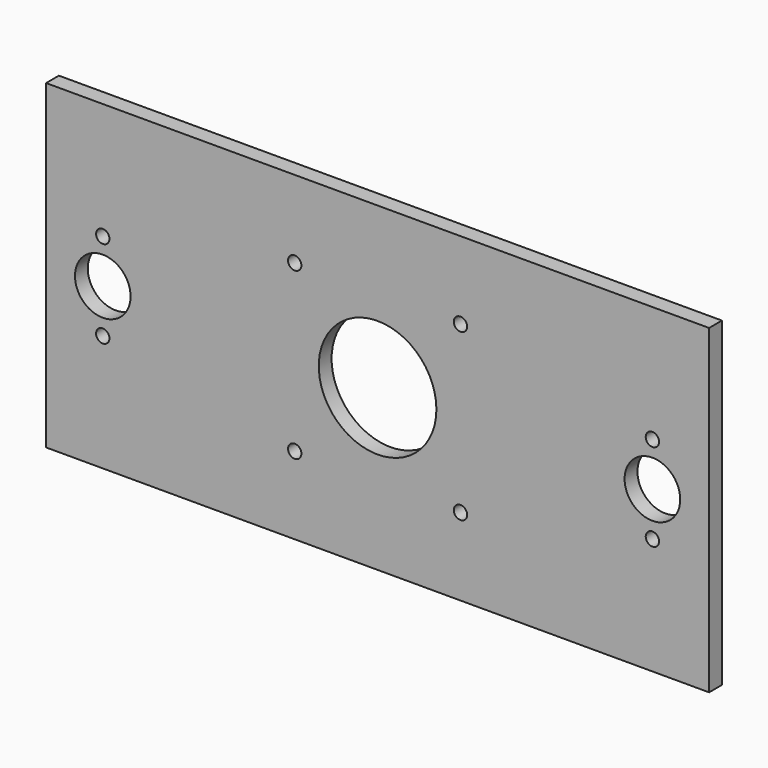
from build123d import *

# Parameters (mm, degrees)
F0_W     = 124
F0_H     = 60
F0_R     = 1.25
F0_R_2   = 5.2
F0_R_3   = 11
F1_DEPTH = 3


with BuildPart() as f1:
    # F0 (on Front) → F1 (new body)
    with BuildSketch(Plane.XZ):
        Rectangle(F0_W, F0_H)
        with Locations((-15.5, -15.5)):
            Circle(F0_R, mode=Mode.SUBTRACT)
        with Locations((-51.4, -8.2)):
            Circle(F0_R, mode=Mode.SUBTRACT)
        with Locations((15.5, -15.5)):
            Circle(F0_R, mode=Mode.SUBTRACT)
        with Locations((51.4, -8.2)):
            Circle(F0_R, mode=Mode.SUBTRACT)
        with Locations((-51.4, 0)):
            Circle(F0_R_2, mode=Mode.SUBTRACT)
        with Locations((-51.4, 8.2)):
            Circle(F0_R, mode=Mode.SUBTRACT)
        with Locations((-15.5, 15.5)):
            Circle(F0_R, mode=Mode.SUBTRACT)
        Circle(F0_R_3, mode=Mode.SUBTRACT)
        with Locations((51.4, 0)):
            Circle(F0_R_2, mode=Mode.SUBTRACT)
        with Locations((51.4, 8.2)):
            Circle(F0_R, mode=Mode.SUBTRACT)
        with Locations((15.5, 15.5)):
            Circle(F0_R, mode=Mode.SUBTRACT)
    extrude(amount=F1_DEPTH)


solid = f1.part
